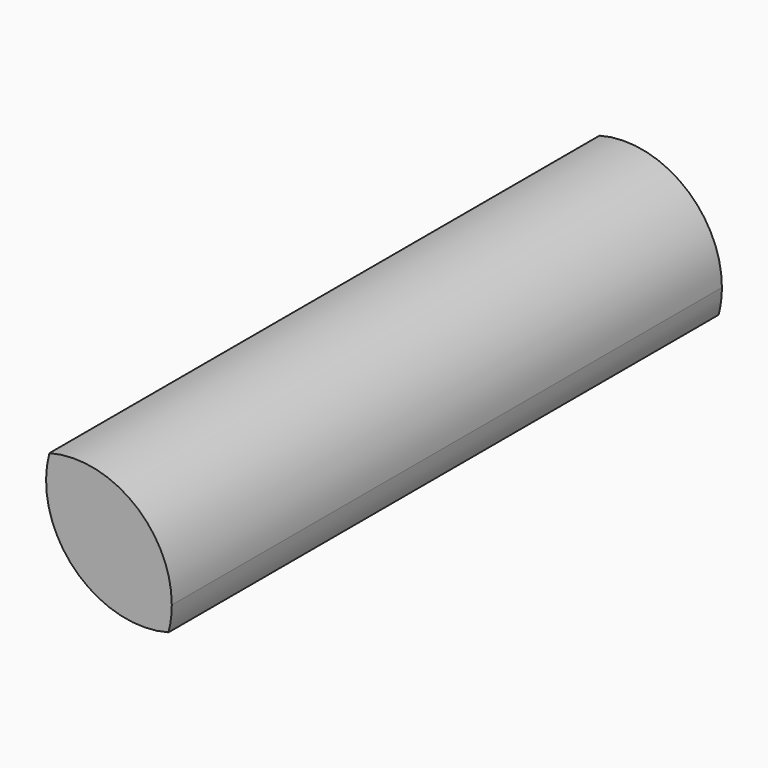
from build123d import *

# Parameters (mm, degrees)
F1_DEPTH = 63.5


with BuildPart() as f1:
    # F0 (on Front) → F1 (new body)
    with BuildSketch(Plane.XZ):
        with BuildLine():
            ThreePointArc((8.6733023192, -2.3226002863), (8.9021727517, -1.1713093136), (8.9789, 0))
            ThreePointArc((8.9789, 0), (5.4654699971, 7.1238530951), (-2.3252203089, 8.6726002863))
            ThreePointArc((-2.3252203089, 8.6726002863), (0, 0), (8.6733023192, -2.3226002863))
        make_face()
    extrude(amount=F1_DEPTH)


solid = f1.part
